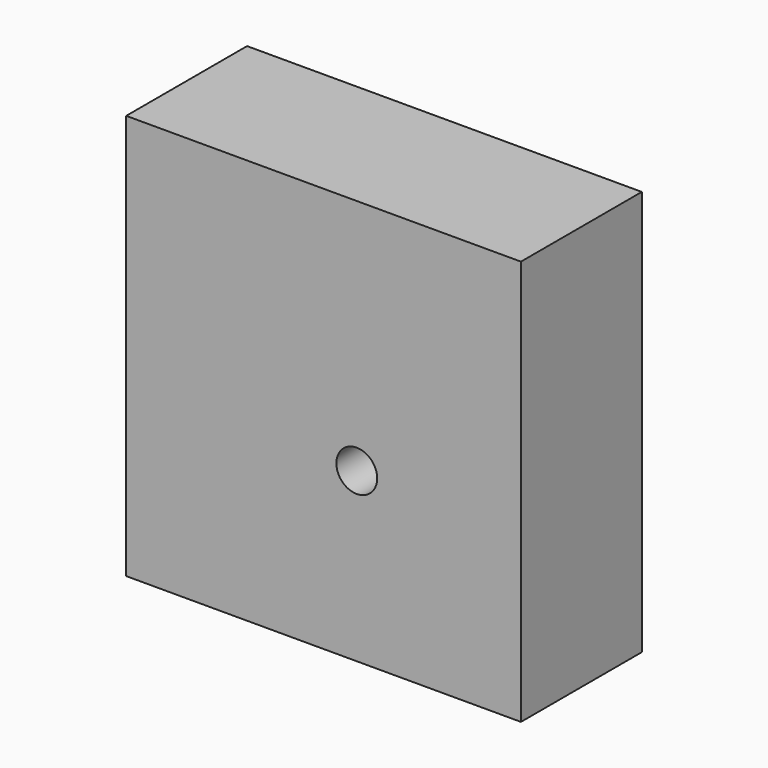
from build123d import *

# Parameters (mm, degrees)
F0_W     = 65.3294026852
F0_H     = 67.0638121665
F1_DEPTH = 25
F3_D     = 6.7564
F3_DEPTH = 15.81
F3_TIP   = 2.0298273432


with BuildPart() as f1:
    # F0 (on Front) → F1 (new body)
    with BuildSketch(Plane.XZ):
        with Locations((-134.2721581459, 62.2941888869)):
            Rectangle(F0_W, F0_H)
    extrude(amount=F1_DEPTH)

    # F3
    with Locations(Plane.XZ.offset(25)):
        with Locations((-128.7798583508, 56.5128214657)):
            Hole(F3_D / 2, depth=F3_DEPTH)
            with Locations((0, 0, -(F3_DEPTH + F3_TIP / 2))):  # 118° drill point
                Cone(0, F3_D / 2, F3_TIP, mode=Mode.SUBTRACT)


solid = f1.part
